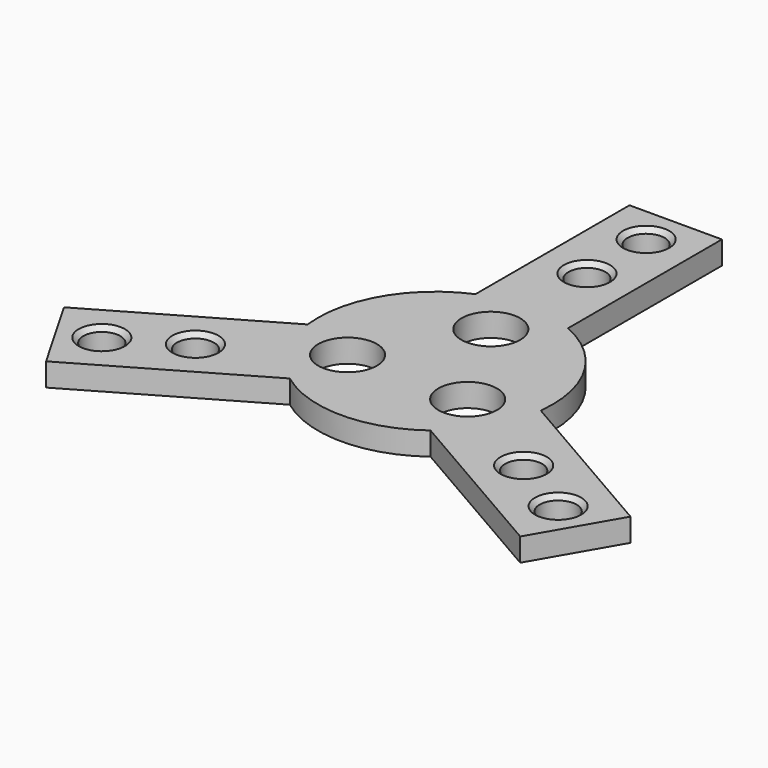
from build123d import *

# Parameters (mm, degrees)
F0_R           = 6.35
F1_DEPTH       = 5
F3_D           = 8
F3_CSINK_D     = 10
F3_CSINK_ANGLE = 90


with BuildPart() as f1:
    # F0 (on Top) → F1 (new body)
    with BuildSketch(Plane.XY):
        with BuildLine():
            Line((-10, 65), (-10, 23.348662))
            ThreePointArc((-10, 23.348662), (-21.997045, 12.7), (-25.220534, -3.014077))
            Line((-25.220534, -3.014077), (-61.291651, -23.839746))
            Line((-61.291651, -23.839746), (-51.291651, -41.160254))
            Line((-51.291651, -41.160254), (-15.220534, -20.334585))
            ThreePointArc((-15.220534, -20.334585), (0, -25.4), (15.220534, -20.334585))
            Line((15.220534, -20.334585), (51.291651, -41.160254))
            Line((51.291651, -41.160254), (61.291651, -23.839746))
            Line((61.291651, -23.839746), (25.220534, -3.014077))
            ThreePointArc((25.220534, -3.014077), (21.997045, 12.7), (10, 23.348662))
            Line((10, 23.348662), (10, 65))
            Line((10, 65), (-10, 65))
        make_face()
        with Locations((-12.990381, -7.5)):
            Circle(F0_R, mode=Mode.SUBTRACT)
        with Locations((12.990381, -7.5)):
            Circle(F0_R, mode=Mode.SUBTRACT)
        with Locations((0, 15)):
            Circle(F0_R, mode=Mode.SUBTRACT)
    extrude(amount=F1_DEPTH)

    # F3 (through all)
    with Locations(Plane.XY.offset(5)):
        with Locations((0, 57), (0, 41), (35.507042, -20.5), (49.363448, -28.5), (-35.507042, -20.5), (-49.363448, -28.5)):
            CounterSinkHole(F3_D / 2, F3_CSINK_D / 2, counter_sink_angle=F3_CSINK_ANGLE)


solid = f1.part
